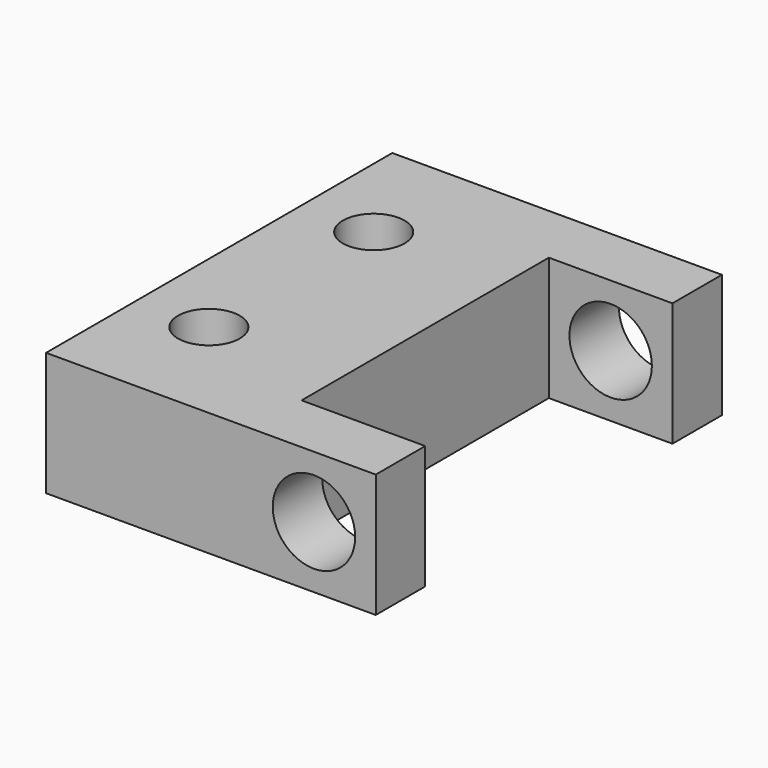
from build123d import *

# Parameters (mm, degrees)
CYLINDER001_R          = 1.5
CYLINDER001_DEPTH      = 10
CYLINDER_R             = 1.5
CYLINDER_DEPTH         = 10
CYLINDER002_R          = 2
CYLINDER002_DEPTH      = 30
CYLINDER002_ROLL_ANGLE = 90
BOX_W                  = 10
BOX_H                  = 15
BOX_DEPTH              = 6
BOX002_W               = 16
BOX002_H               = 3
BOX002_DEPTH           = 6
BOX001_W               = 16
BOX001_H               = 3
BOX001_DEPTH           = 6


with BuildPart() as cylinder001:
    # Cylinder001 → Cylinder001 (new body)
    with BuildSketch(Plane(origin=(3.5, 12.5, 0), x_dir=(1, 0, 0), z_dir=(0, 0, 1))):
        Circle(CYLINDER001_R)
    extrude(amount=CYLINDER001_DEPTH)


with BuildPart() as cylinder:
    # Cylinder → Cylinder (new body)
    with BuildSketch(Plane(origin=(3.5, 2.5, 0), x_dir=(1, 0, 0), z_dir=(0, 0, 1))):
        Circle(CYLINDER_R)
    extrude(amount=CYLINDER_DEPTH)


with BuildPart() as cylinder002:
    # Cylinder002 → Cylinder002 (new body)
    with BuildSketch(Plane.XY):
        Circle(CYLINDER002_R)
    extrude(amount=CYLINDER002_DEPTH)


with BuildPart() as cylinder002_1:
    # Cylinder002 roll: moved
    add(cylinder002.part.rotate(Axis((0, 0, 0), (1, 0, 0)), CYLINDER002_ROLL_ANGLE))


with BuildPart() as cylinder002_2:
    # Cylinder002 placement: moved
    add(cylinder002_1.part.moved(Location((13, 20, 3))))


with BuildPart() as cube:
    # Box → Box (new body)
    with BuildSketch(Plane.XY):
        with Locations((5, 7.5)):
            Rectangle(BOX_W, BOX_H)
    extrude(amount=BOX_DEPTH)


with BuildPart() as cube002:
    # Box002 → Box002 (new body)
    with BuildSketch(Plane(origin=(0, 15, 0), x_dir=(1, 0, 0), z_dir=(0, 0, 1))):
        with Locations((8, 1.5)):
            Rectangle(BOX002_W, BOX002_H)
    extrude(amount=BOX002_DEPTH)


with BuildPart() as cut002:
    # Box001 → Box001 (new body)
    with BuildSketch(Plane(origin=(0, -3, 0), x_dir=(1, 0, 0), z_dir=(0, 0, 1))):
        with Locations((8, 1.5)):
            Rectangle(BOX001_W, BOX001_H)
    extrude(amount=BOX001_DEPTH)

    # Fusion: union Cube, Cube002
    add(cube.part)
    add(cube002.part)

    # Cut: cut Cylinder002
    add(cylinder002_2.part, mode=Mode.SUBTRACT)

    # Cut001: cut Cylinder
    add(cylinder.part, mode=Mode.SUBTRACT)

    # Cut002: cut Cylinder001
    add(cylinder001.part, mode=Mode.SUBTRACT)


solid = cut002.part
